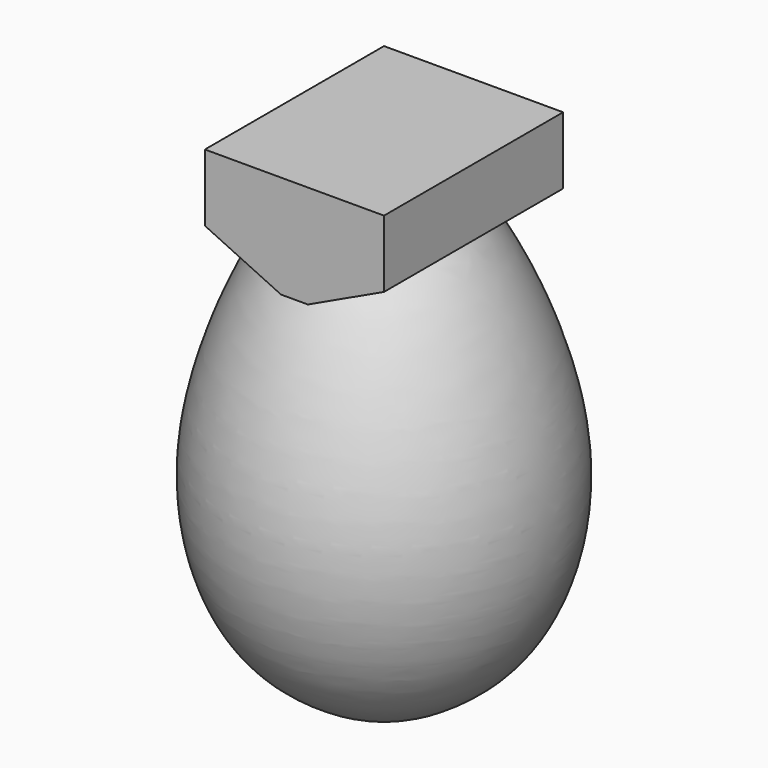
from build123d import *

# Parameters (mm, degrees)
F3_DEPTH      = 25
F3_DEPTH_BACK = 25


with BuildPart() as f1:
    # F0 (on Front) → F1 (revolve)
    with BuildSketch(Plane.XZ):
        with BuildLine():
            add(Edge.make_bspline(
                [(0, 43.7119613894), (6.5464770588, 43.5959207861), (18.6834430675, 36.3523562112), (40.5972535224, -11.4752158169), (32.8969671474, -46.3643235265), (19.0056056037, -60.8196266846), (6.5205989173, -66.2880386106), (0, -66.2880386106)],
                knots=[0, 0, 0, 0, 0.1650434466, 0.439103978, 0.6649192361, 0.8317989551, 1, 1, 1, 1], degree=3))
            Line((0, 43.7119613894), (0, -66.2880386106))
        make_face()
    revolve(axis=Axis((0, 0, -11.2880386106), (0, 0, 1)))


with BuildPart() as f3:
    # F2 (on Front) → F3 (new body, two sides)
    with BuildSketch(Plane.XZ) as f3_sk:
        Polygon((0, 46.5), (0, 23.5), (3, 23.5), (20, 31.5), (20, 46.5), align=None)
        Polygon((-3, 23.5), (0, 23.5), (0, 46.5), (-20, 46.5), (-20, 31.5), align=None)
    extrude(amount=F3_DEPTH)
    extrude(f3_sk.sketch, amount=-F3_DEPTH_BACK)


solid = Compound([f1.part, f3.part])
